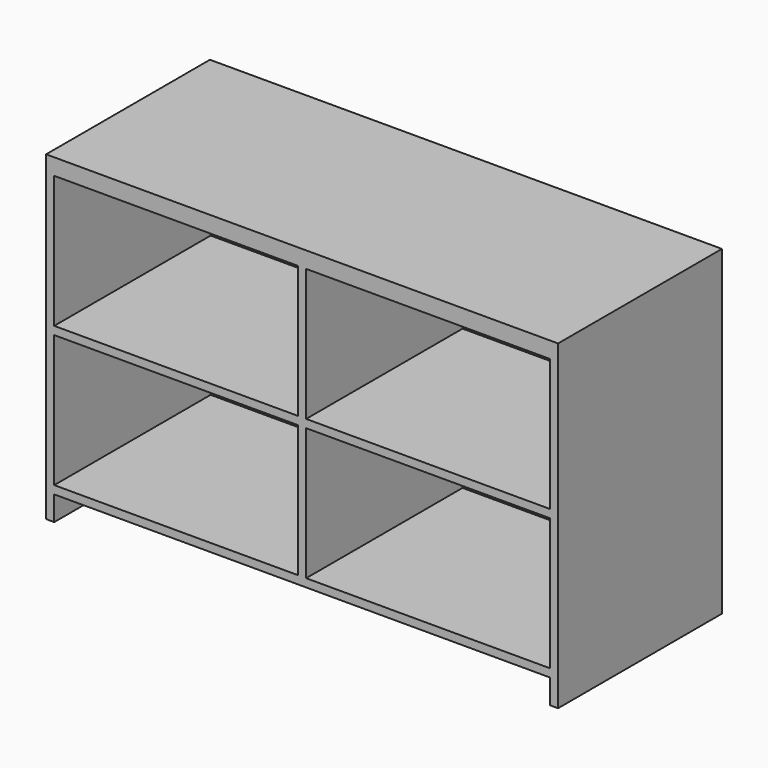
from build123d import *

# Parameters (mm, degrees)
F0_W     = 665.1625
F0_H     = 360.3625
F1_DEPTH = 558.8
F3_W     = 1371.2975630056
F3_H     = 780.9091647143
F3_R     = 38.1
F4_DEPTH = 19.05


with BuildPart() as f1:
    # F0 (on Front) → F1 (new body)
    with BuildSketch(Plane.XZ):
        Polygon((0, 876.3), (0, 0), (22.225, 0), (22.225, 66.675), (1374.775, 66.675), (1374.775, 0), (1397, 0), (1397, 876.3), (1374.775, 876.3), (22.225, 876.3), align=None)
        with Locations((354.80625, 269.08125)):
            Rectangle(F0_W, F0_H, mode=Mode.SUBTRACT)
        with Locations((1042.19375, 269.08125)):
            Rectangle(F0_W, F0_H, mode=Mode.SUBTRACT)
        with Locations((354.80625, 651.66875)):
            Rectangle(F0_W, F0_H, mode=Mode.SUBTRACT)
        with Locations((1042.19375, 651.66875)):
            Rectangle(F0_W, F0_H, mode=Mode.SUBTRACT)
    extrude(amount=-F1_DEPTH)

    # F3 (on offset) → F4 (join)
    with BuildSketch(Plane(origin=(0, 552.45, 0), x_dir=(-1, 0, 0), z_dir=(0, 1, 0))):
        with Locations((-703.409165144, 470.8791077137)):
            Rectangle(F3_W, F3_H)
        with Locations((-766.5868722531, 394.066524032)):
            Circle(F3_R, mode=Mode.SUBTRACT)
    extrude(amount=-F4_DEPTH)


solid = f1.part
